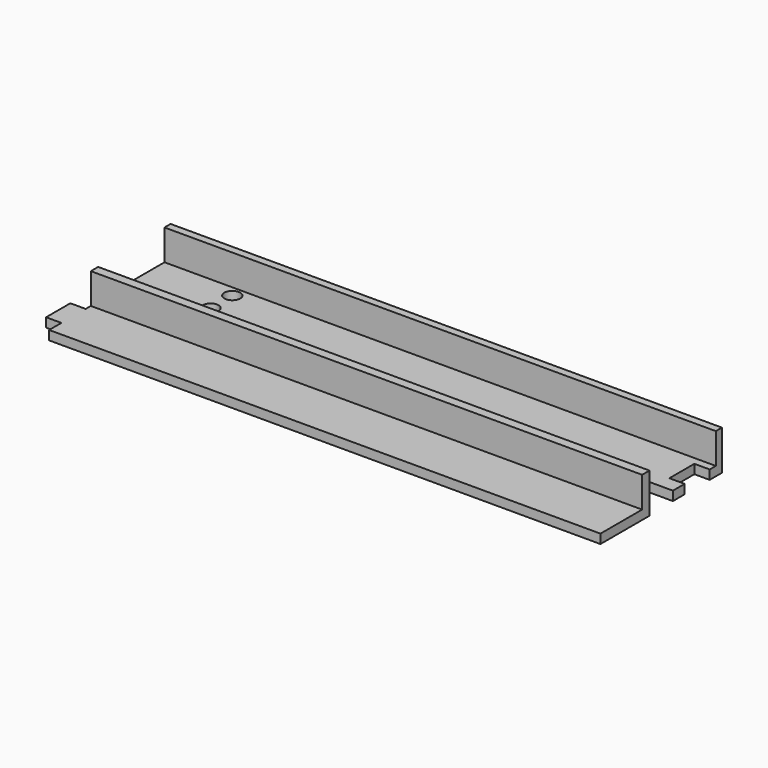
from build123d import *

# Parameters (mm, degrees)
F0_W     = 180
F0_H     = 20
F0_W_2   = 5
F0_H_2   = 9.9
F1_DEPTH = 3
F2_W     = 5
F2_H     = 10.2
F3_DEPTH = 3
F4_W     = 180
F4_H     = 2.5
F5_DEPTH = 10
F6_W     = 180
F6_H     = 3
F7_DEPTH = 10
F8_R     = 2.590815
F9_DEPTH = 3


with BuildPart() as f1:
    # F0 (on Top) → F1 (new body)
    with BuildSketch(Plane.XY):
        with Locations((-1.103466, 17.924061)):
            Rectangle(F0_W, F0_H)
        Polygon((89.29022, -2.139678), (-90.70978, -2.139678), (-90.70978, -7.239678), (-90.70978, -17.139678), (-90.70978, -22.139678), (89.29022, -22.139678), align=None)
        with Locations((-93.20978, -12.189678)):
            Rectangle(F0_W_2, F0_H_2)
    extrude(amount=F1_DEPTH)

    # F2 (on face) → F3 (cut)
    with BuildSketch(Plane.XY.offset(3)):
        with Locations((86.396534, 17.824061)):
            Rectangle(F2_W, F2_H)
    extrude(amount=-F3_DEPTH, mode=Mode.SUBTRACT)

    # F4 (on face) → F5 (join)
    with BuildSketch(Plane.XY.offset(3)):
        with Locations((-1.103466, 26.674061)):
            Rectangle(F4_W, F4_H)
    extrude(amount=F5_DEPTH)

    # F6 (on face) → F7 (join)
    with BuildSketch(Plane.XY.offset(3)):
        with Locations((-0.70978, -3.639678)):
            Rectangle(F6_W, F6_H)
    extrude(amount=F7_DEPTH)

    # F8 (on face) → F9 (cut)
    with BuildSketch(Plane.XY.offset(3)):
        with Locations((-66.103466, 21.850408)):
            Circle(F8_R)
        with Locations((-66.103466, 12.99647)):
            Circle(F8_R)
    extrude(amount=-F9_DEPTH, mode=Mode.SUBTRACT)


solid = f1.part
